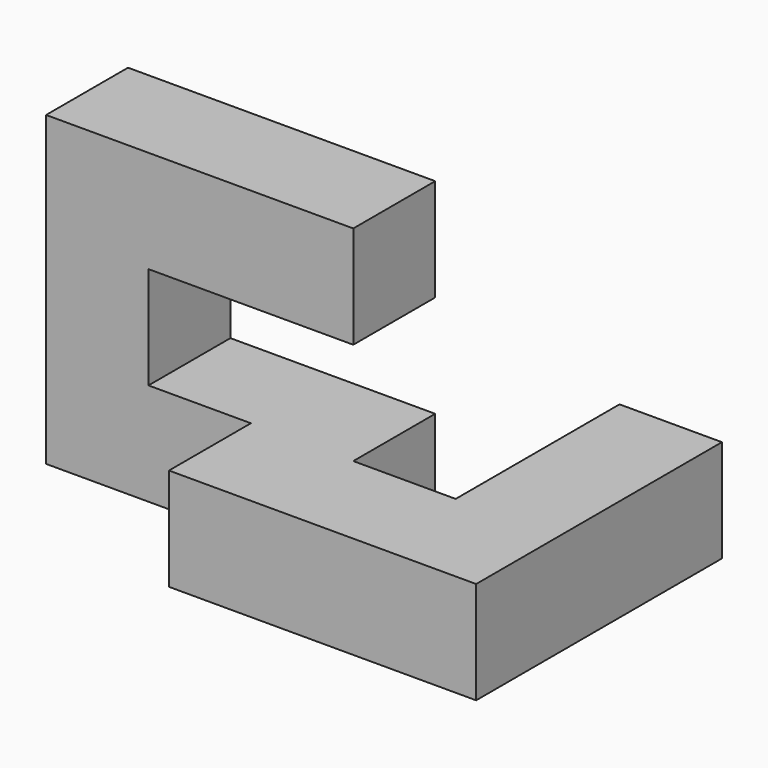
from build123d import *

# Parameters (mm, degrees)
F0_W     = 12.7
F0_H     = 12.7
F1_DEPTH = 12.7
F2_DEPTH = 12.7
F3_DEPTH = 25.4


with BuildPart() as f1:
    # F0 (on Front) → F1 (new body)
    with BuildSketch(Plane.XZ):
        with Locations((-11.356164, 4.188791)):
            Rectangle(F0_W, F0_H)
        with Locations((-24.056164, 4.188791)):
            Rectangle(F0_W, F0_H)
        with Locations((1.343836, 4.188791)):
            Rectangle(F0_W, F0_H)
    extrude(amount=F1_DEPTH)

    # F0 (on Front) → F2 (join)
    with BuildSketch(Plane.XZ):
        with Locations((-24.056164, 4.188791)):
            Rectangle(F0_W, F0_H)
        with Locations((-36.756164, 4.188791)):
            Rectangle(F0_W, F0_H)
        with Locations((-49.456164, 4.188791)):
            Rectangle(F0_W, F0_H)
        with Locations((-49.456164, 16.888791)):
            Rectangle(F0_W, F0_H)
        with Locations((-49.456164, 29.588791)):
            Rectangle(F0_W, F0_H)
        with Locations((-36.756164, 29.588791)):
            Rectangle(F0_W, F0_H)
        with Locations((-24.056164, 29.588791)):
            Rectangle(F0_W, F0_H)
    extrude(amount=-F2_DEPTH)

    # F0 (on Front) → F3 (join)
    with BuildSketch(Plane.XZ):
        with Locations((1.343836, 4.188791)):
            Rectangle(F0_W, F0_H)
    extrude(amount=-F3_DEPTH)


solid = f1.part
